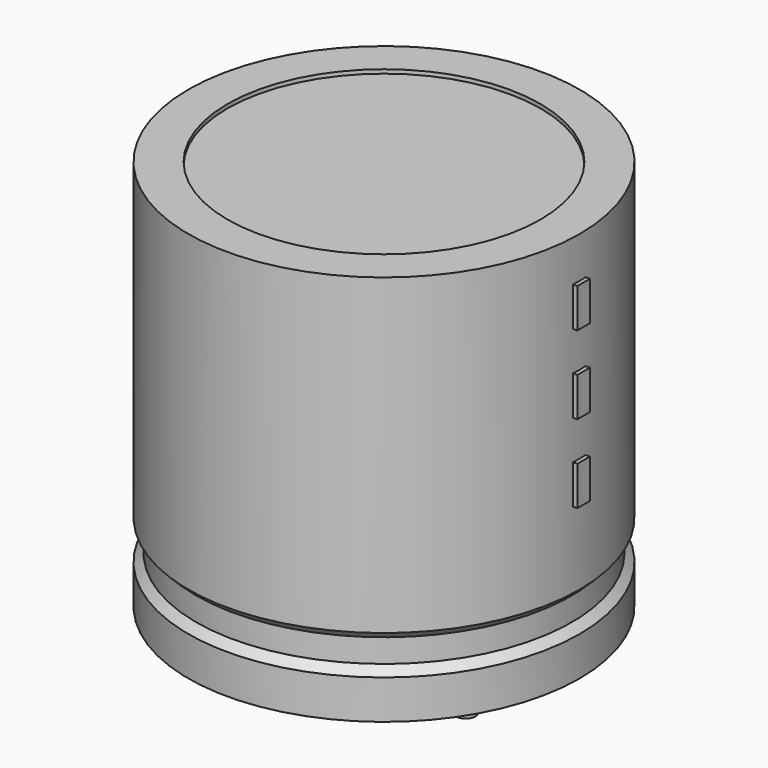
from build123d import *

# Parameters (mm, degrees)
SKETCH002_W  = 8.28
SKETCH002_H  = 17.64
SKETCH003_R  = 0.45
PAD_DEPTH    = 4.8
SKETCH004_W  = 0.72
SKETCH004_H  = 1.8
PAD001_DEPTH = 9.18


with BuildPart() as revolution:
    # Sketch → Revolution (revolve)
    with BuildSketch(Plane.XZ):
        Polygon((-5.25, 0.1), (-5.25, 1.9), (-4.89, 2.26), (-4.89, 3.34), (-5.25, 3.7), (-5.25, 18.1), (-3.45, 18.1), (-3.45, 0.1), align=None)
    revolve(axis=Axis((3.75, 0, 7.548619), (0, 0, -1)))


with BuildPart() as revolution001:
    # Sketch002 → Revolution001 (revolve)
    with BuildSketch(Plane.XZ):
        with Locations((-0.39, 9.1)):
            Rectangle(SKETCH002_W, SKETCH002_H)
    revolve(axis=Axis((3.75, 0, 4.680116), (0, 0, -1)))


with BuildPart() as pad:
    # Sketch003 → Pad (new body)
    with BuildSketch(Plane.XY.offset(1.8)):
        Circle(SKETCH003_R)
        with Locations((7.5, 0)):
            Circle(SKETCH003_R)
    extrude(amount=-PAD_DEPTH)


with BuildPart() as pad001:
    # Sketch004 → Pad001 (new body)
    with BuildSketch(Plane.YZ.offset(3.75)):
        with Locations((0, 8.1)):
            Rectangle(SKETCH004_W, SKETCH004_H)
        with Locations((0, 11.7)):
            Rectangle(SKETCH004_W, SKETCH004_H)
        with Locations((0, 15.3)):
            Rectangle(SKETCH004_W, SKETCH004_H)
    extrude(amount=PAD001_DEPTH)


solid = Compound([revolution.part, revolution001.part, pad.part, pad001.part])
